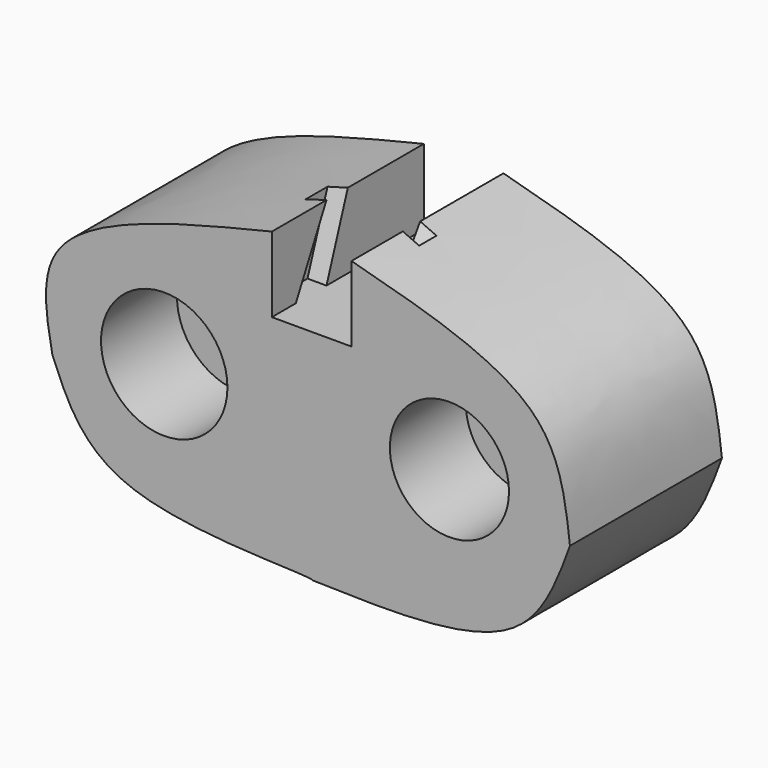
from build123d import *

# Parameters (mm, degrees)
F1_DEPTH  = 50.8
F2_R      = 16.9023108292
F2_R_2    = 15.9336293425
F3_DEPTH  = 25.4
F4_W      = 6.4683202654
F4_H      = 8.9478455484
F5_DEPTH  = 20.1422
F7_DEPTH  = 20.1422
F9_DEPTH  = 5.08
F11_DEPTH = 5.08
F13_DEPTH = 5.08


with BuildPart() as f1:
    # F0 (on Front) → F1 (new body)
    with BuildSketch(Plane.XZ):
        with BuildLine():
            Line((10.3610064834, 27.9171578586), (-10.9366187826, 27.9171578586))
            Line((-10.9366187826, 27.9171578586), (-10.9366187826, 48.0635650456))
            add(Edge.make_bspline(
                [(-69.6489959955, 0), (-71.3521609697, 9.1404972773), (-75.7031147589, 32.4910721582), (-35.4393063841, 42.172124994), (-10.9366187826, 48.0635650456)],
                knots=[0, 0, 0, 0, 0.3914463487, 1, 1, 1, 1], degree=3))
            add(Edge.make_bspline(
                [(-69.6489959955, 0), (-65.6808981625, -9.7567834982), (-56.8491666777, -31.4722995051), (-1.4859571576, -29.3762186894), (0, -30.5074099451)],
                knots=[0, 0, 0, 0, 0.4310565027, 0.9593955207, 0.9593955207, 0.9593955207, 0.9593955207], degree=3))
            add(Edge.make_bspline(
                [(0, -30.5074099451), (20.8319398692, -31.1069128662), (56.9844176124, -32.1473112232), (65.2730555247, -9.5683941039), (68.7855780125, 0)],
                knots=[0, 0, 0, 0, 0.576224402, 1, 1, 1, 1], degree=3))
            add(Edge.make_bspline(
                [(10.3610064834, 48.0635650456), (30.289884659, 42.7388235814), (64.8673270211, 33.5001730438), (67.6195937052, 9.968906062), (68.7855780125, 0)],
                knots=[0, 0, 0, 0, 0.5763548954, 1, 1, 1, 1], degree=3))
            Line((10.3610064834, 48.0635650456), (10.3610064834, 27.9171578586))
        make_face()
    extrude(amount=F1_DEPTH)

    # F2 (on face) → F3 (cut)
    with BuildSketch(Plane.XZ.offset(50.8)):
        with Locations((-39.7171936929, 7.4829496443)):
            Circle(F2_R)
        with Locations((36.5513339639, 7.4829496443)):
            Circle(F2_R_2)
    extrude(amount=-F3_DEPTH, mode=Mode.SUBTRACT)

    # F4 (on Top) → F5 (cut)
    with BuildSketch(Plane.XY):
        with Locations((-14.1248302534, -29.9614351243)):
            Rectangle(F4_W, F4_H)
        Polygon((17.0188006014, -25.4875123501), (10.3522520512, -25.4875123501), (10.4804551229, -34.4353578985), (17.0188006014, -34.4353578985), align=None)
    extrude(amount=-F5_DEPTH, mode=Mode.SUBTRACT)

    # F6 (on Top) → F7 (cut)
    with BuildSketch(Plane.XY):
        Polygon((-10.9366187826, -33.3854667842), (-11.2244244665, -20.4342082143), (-22.1610441804, -20.4342082143), (-22.1610441804, -33.3854667842), align=None)
        Polygon((21.8732375652, -20.4342082143), (10.0732007995, -20.4342082143), (10.3610064834, -33.3854667842), (21.8732375652, -33.3854667842), align=None)
    extrude(amount=-F7_DEPTH, mode=Mode.SUBTRACT)

    # F8 (on face) → F9 (cut)
    with BuildSketch(Plane.YZ.offset(-10.9366187826)):
        Polygon((-32.5317271054, 27.9171578586), (-25.4, 48.0635650456), (-32.5317271054, 48.0635650456), (-42.7853837609, 27.9171578586), align=None)
    extrude(amount=-F9_DEPTH, mode=Mode.SUBTRACT)

    # F10 (on Front) → F11 (cut)
    with BuildSketch(Plane.XZ):
        Polygon((29.1642211378, 44.9136085808), (20.9452454001, 46.1828112602), (29.1642211378, 24.8657949269), (35.5472825468, 23.4038140625), align=None)
    extrude(amount=-F11_DEPTH, mode=Mode.SUBTRACT)

    # F12 (on face) → F13 (cut)
    with BuildSketch(Plane(origin=(10.3610064834, 0, 0), x_dir=(0, -1, 0), z_dir=(-1, 0, 0))):
        Polygon((33.6429066956, 48.0635650456), (27.8411041945, 48.0635650456), (41.0764664412, 27.9171578586), (46.6969534755, 27.9171578586), align=None)
    extrude(amount=-F13_DEPTH, mode=Mode.SUBTRACT)


solid = f1.part
